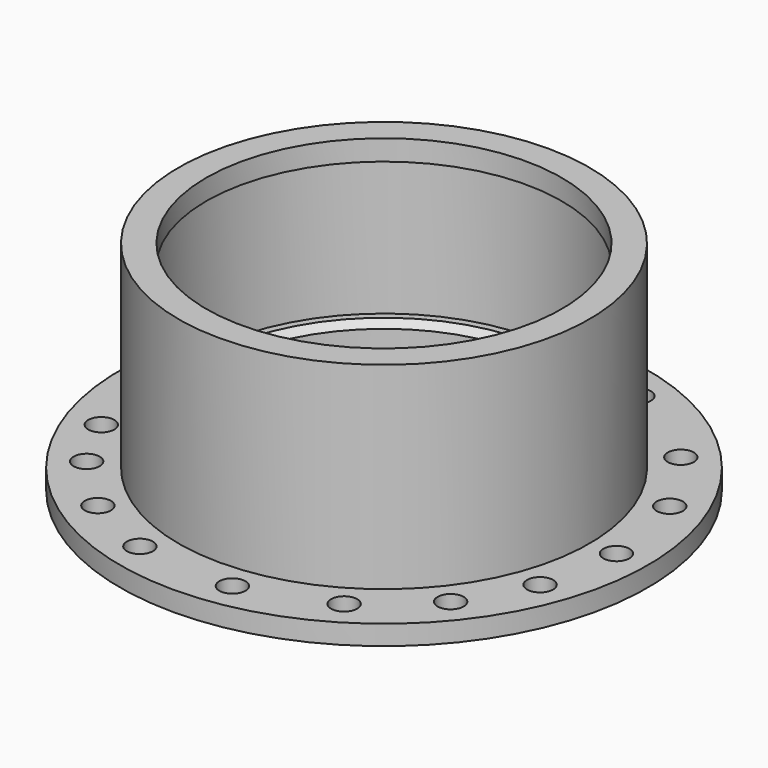
from build123d import *

# Parameters (mm, degrees)
F3_D     = 45
F3_DEPTH = 20
F3_TIP   = 13.5193639281
F5_D     = 3.3
F5_DEPTH = 20
F5_TIP   = 0.9914200214


with BuildPart() as f1:
    # F0 (on Right) → F1 (revolve)
    with BuildSketch(Plane.YZ):
        Polygon((0, -2.6000006461), (0, 0), (-26, 0), (-26, -25), (-33.4, -25), (-33.4, -27.5), (-23.4, -27.5), (-23.4, -24.5), (-21.4, -24.5), (-21.4, -20), (-23.4, -20), (-23.4, -2.6000006461), align=None)
    revolve(axis=Axis((0, 0, -1.300000323), (0, 0, 1)))

    # F3
    with Locations(Plane.XY):
        with Locations((0, 0)):
            Hole(F3_D / 2, depth=F3_DEPTH)
            with Locations((0, 0, -(F3_DEPTH + F3_TIP / 2))):  # 118° drill point
                Cone(0, F3_D / 2, F3_TIP, mode=Mode.SUBTRACT)

    # F5
    with Locations(Plane.XY.offset(-25)):
        with Locations((-26.1672226652, 13.4486109676), (-17.3401695769, 23.7677764633), (-5.3680126756, 28.9270309378), (9.997338267, 27.6702350286), (21.5074325556, 20.0753337165), (27.2051514467, 11.2012683982), (29.4208884802, 0), (27.6971504759, -9.9225266177), (23.0558330823, -18.2761385376), (15.1375992814, -25.2277975051), (4.1127317731, -29.1320118826), (-8.323613721, -28.2188967465), (-17.0114493372, -24.0041511079), (-23.7931689823, -17.3053109983), (-29.4208884802, 0), (-27.5693241627, -10.2723436556)):
            Hole(F5_D / 2, depth=F5_DEPTH)
            with Locations((0, 0, -(F5_DEPTH + F5_TIP / 2))):  # 118° drill point
                Cone(0, F5_D / 2, F5_TIP, mode=Mode.SUBTRACT)


solid = f1.part
